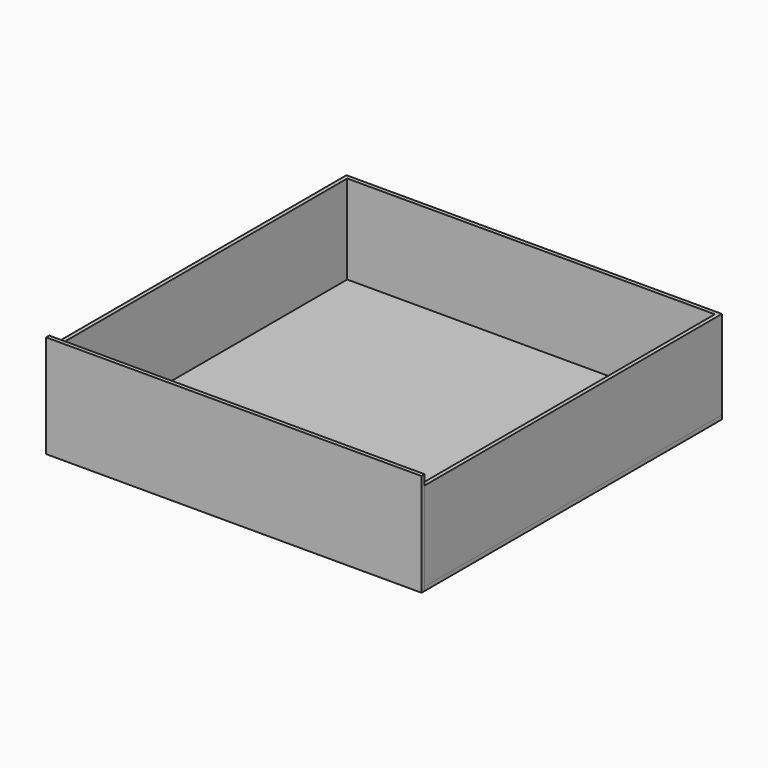
from build123d import *

# Parameters (mm, degrees)
F0_W     = 950
F0_H     = 940
F1_DEPTH = 10
F2_W     = 10
F2_H     = 930
F3_DEPTH = 225
F4_W     = 950
F4_H     = 260
F5_DEPTH = 10


with BuildPart() as f1:
    # F0 (on Top) → F1 (new body)
    with BuildSketch(Plane.XY):
        with Locations((475, 470)):
            Rectangle(F0_W, F0_H)
    extrude(amount=F1_DEPTH)


with BuildPart() as f3:
    # F2 (on face) → F3 (new body)
    with BuildSketch(Plane.XY.offset(10)):
        Polygon((950, 940), (0, 940), (0, 930), (10, 930), (940, 930), (950, 930), align=None)
        with Locations((5, 465)):
            Rectangle(F2_W, F2_H)
        with Locations((945, 465)):
            Rectangle(F2_W, F2_H)
    extrude(amount=F3_DEPTH)


with BuildPart() as f5:
    # F4 (on face) → F5 (new body)
    with BuildSketch(Plane.XZ):
        with Locations((475, 130)):
            Rectangle(F4_W, F4_H)
    extrude(amount=F5_DEPTH)


solid = Compound([f1.part, f3.part, f5.part])
